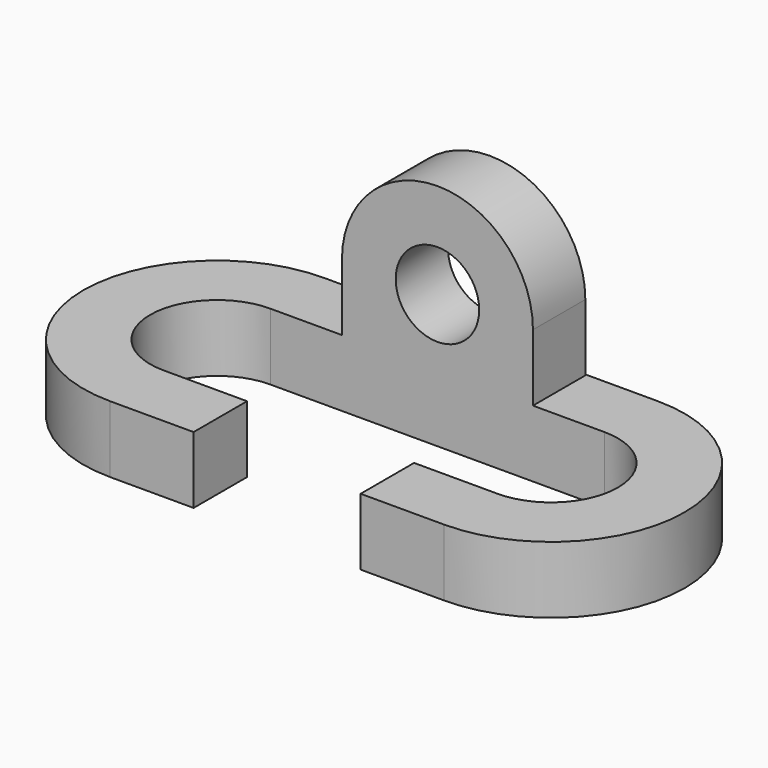
from build123d import *

# Parameters (mm, degrees)
F1_DEPTH = 12.7
F2_R     = 7.9375
F3_DEPTH = 12.446


with BuildPart() as f1:
    # F0 (on Top) → F1 (new body)
    with BuildSketch(Plane.XY):
        with BuildLine():
            Line((15.875, -25.4), (31.75, -25.4))
            ThreePointArc((31.75, -25.4), (57.15, 0), (31.75, 25.4))
            Line((31.75, 25.4), (0, 25.4))
            Line((0, 25.4), (-31.75, 25.4))
            ThreePointArc((-31.75, 25.4), (-57.15, 0), (-31.75, -25.4))
            Line((-31.75, -25.4), (-15.875, -25.4))
            Line((-15.875, -25.4), (-15.875, -12.7))
            Line((-15.875, -12.7), (-31.75, -12.7))
            ThreePointArc((-31.75, -12.7), (-44.45, 0), (-31.75, 12.7))
            Line((-31.75, 12.7), (0, 12.7))
            Line((0, 12.7), (31.75, 12.7))
            ThreePointArc((31.75, 12.7), (44.45, 0), (31.75, -12.7))
            Line((31.75, -12.7), (15.875, -12.7))
            Line((15.875, -12.7), (15.875, -25.4))
        make_face()
    extrude(amount=F1_DEPTH)

    # F2 (on face) → F3 (join)
    with BuildSketch(Plane.XZ.offset(-12.7)):
        with BuildLine():
            Line((18.154529, 12.7), (18.154529, 25.4))
            ThreePointArc((18.154529, 25.4), (0, 43.554529), (-18.154529, 25.4))
            Line((-18.154529, 25.4), (-18.154529, 12.7))
            Line((-18.154529, 12.7), (18.154529, 12.7))
        make_face()
        with Locations((0, 25.4)):
            Circle(F2_R, mode=Mode.SUBTRACT)
    extrude(amount=-F3_DEPTH)


solid = f1.part
